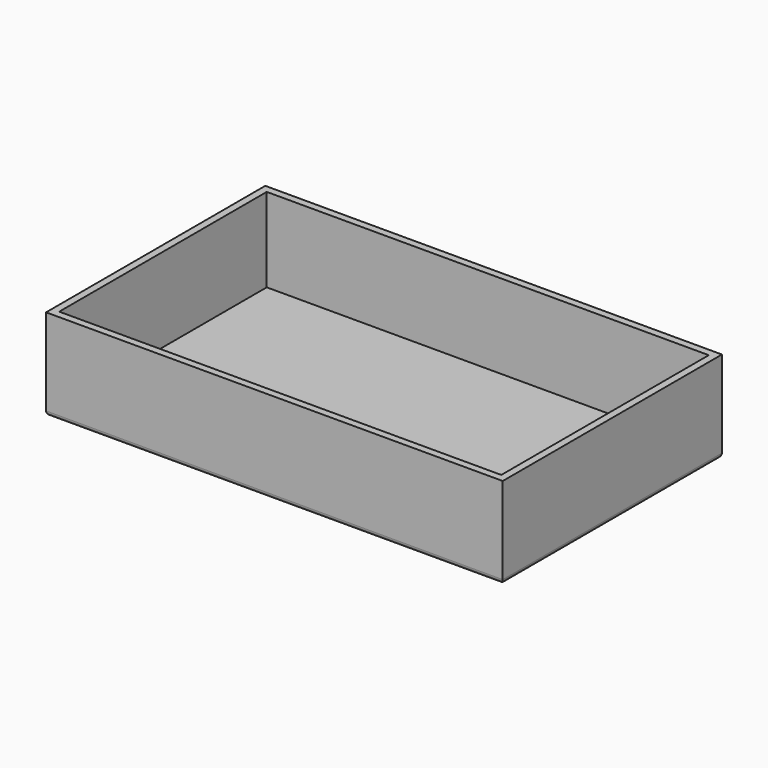
from build123d import *

# Parameters (mm, degrees)
F0_W     = 100
F0_H     = 60
F1_DEPTH = 20
F2_T     = -1.6
F3_R     = 1


with BuildPart() as f1:
    # F0 (on Top) → F1 (new body)
    with BuildSketch(Plane.XY):
        with Locations((-19.466264, 3.285318)):
            Rectangle(F0_W, F0_H)
    extrude(amount=F1_DEPTH)

    # F2
    f2_openings = [f1.faces().sort_by_distance(p)[0] for p in [
        (-19.466264, 3.285318, 20),
    ]]
    offset(amount=F2_T, openings=f2_openings)

    # F3
    f3_edges = [f1.edges().sort_by_distance(p)[0] for p in [
        (-69.466264, 3.285318, 0),
        (-19.466264, -26.714682, 0),
        (30.533736, 3.285318, 0),
        (-19.466264, 33.285318, 0),
    ]]
    fillet(f3_edges, radius=F3_R)


solid = f1.part
